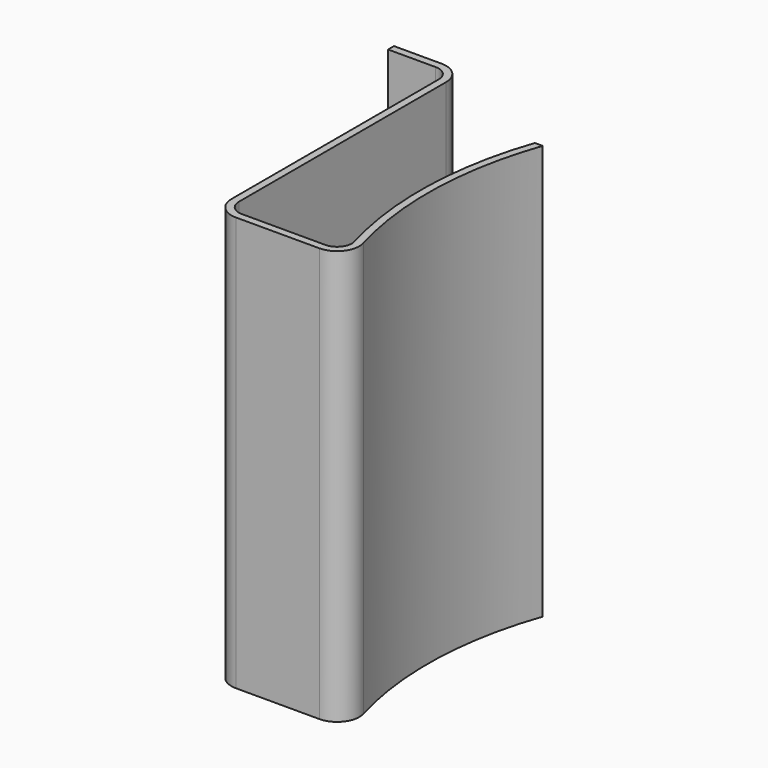
from build123d import *

# Parameters (mm, degrees)
F1_DEPTH = 44.45


with BuildPart() as f1:
    # F0 (on Top) → F1 (new body, symmetric)
    with BuildSketch(Plane.XY):
        with BuildLine():
            Line((0, 1.5875), (0, 0))
            Line((0, 0), (10.220802, 0))
            ThreePointArc((10.220802, 0), (12.465866, -0.929936), (13.395802, -3.175))
            Line((13.395802, -3.175), (13.395802, -58.7375))
            ThreePointArc((13.395802, -58.7375), (14.790706, -62.105096), (18.158302, -63.5))
            Line((18.158302, -63.5), (36.054737, -63.5))
            ThreePointArc((36.054737, -63.5), (39.856558, -61.605874), (40.634283, -57.430147))
            ThreePointArc((40.634283, -57.430147), (37.743331, -34.159931), (42.064957, -11.1125))
            Line((42.064957, -11.1125), (40.383302, -11.1125))
            ThreePointArc((40.383302, -11.1125), (36.14844, -34.391079), (39.107768, -57.865931))
            ThreePointArc((39.107768, -57.865931), (38.589284, -60.649749), (36.054737, -61.9125))
            Line((36.054737, -61.9125), (18.158302, -61.9125))
            ThreePointArc((18.158302, -61.9125), (15.913238, -60.982564), (14.983302, -58.7375))
            Line((14.983302, -58.7375), (14.983302, -3.175))
            ThreePointArc((14.983302, -3.175), (13.588398, 0.192596), (10.220802, 1.5875))
            Line((10.220802, 1.5875), (0, 1.5875))
        make_face()
    extrude(amount=F1_DEPTH, both=True)


solid = f1.part
